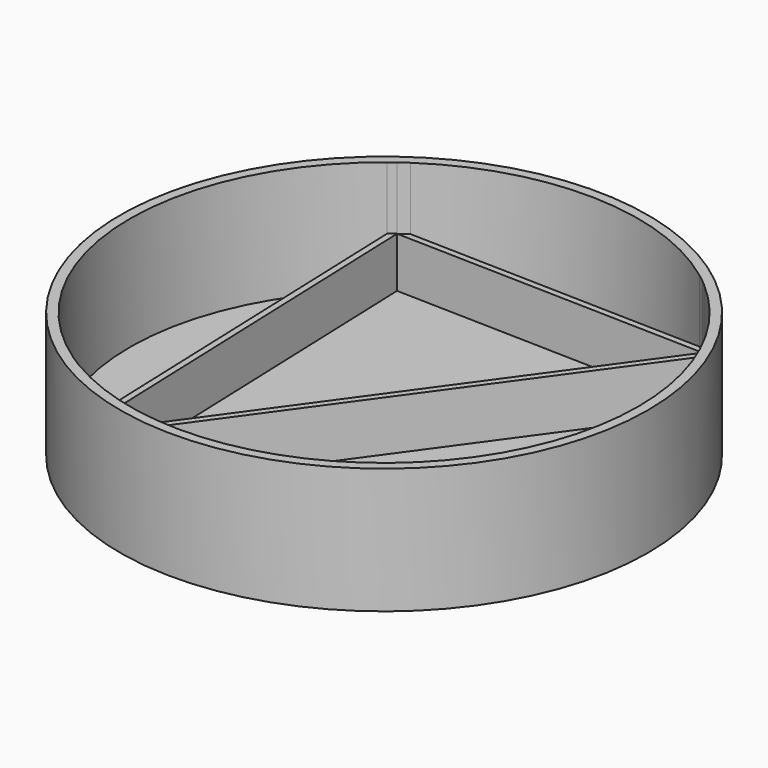
from build123d import *

# Parameters (mm, degrees)
F0_R     = 21.007285
F1_DEPTH = 10
F2_DEPTH = 5
F3_DEPTH = 1


with BuildPart() as f1:
    # F0 (on Top) → F1 (new body)
    with BuildSketch(Plane.XY):
        with Locations((-22.267804, 31.613778)):
            Circle(F0_R)
        with BuildLine():
            ThreePointArc((-9.054285, 46.93661), (-3.872977, 40.040914), (-2.034508, 31.613778))
            ThreePointArc((-2.034508, 31.613778), (-12.277525, 14.018876), (-32.635611, 14.238658))
            ThreePointArc((-32.635611, 14.238658), (-32.851833, 14.369517), (-33.066404, 14.503066))
            ThreePointArc((-33.066404, 14.503066), (-33.325959, 14.669652), (-33.582945, 14.840174))
            ThreePointArc((-33.582945, 14.840174), (-42.48798, 30.885292), (-34.760672, 47.529634))
            ThreePointArc((-34.760672, 47.529634), (-34.516623, 47.718208), (-34.269729, 47.90304))
            ThreePointArc((-34.269729, 47.90304), (-33.927332, 48.149849), (-33.579861, 48.389463))
            ThreePointArc((-33.579861, 48.389463), (-21.7455, 51.840331), (-10.105014, 47.78328))
            ThreePointArc((-10.105014, 47.78328), (-9.770373, 47.526052), (-9.441171, 47.2619))
            ThreePointArc((-9.441171, 47.2619), (-9.246712, 47.100463), (-9.054285, 46.93661))
        make_face(mode=Mode.SUBTRACT)
    extrude(amount=F1_DEPTH)

    # F0 (on Top) → F2 (join)
    with BuildSketch(Plane.XY):
        with BuildLine():
            Line((-34.269729, 47.90304), (-9.441171, 47.2619))
            ThreePointArc((-9.441171, 47.2619), (-9.770373, 47.526052), (-10.105014, 47.78328))
            Line((-10.105014, 47.78328), (-33.579861, 48.389463))
            ThreePointArc((-33.579861, 48.389463), (-33.927332, 48.149849), (-34.269729, 47.90304))
        make_face()
        with BuildLine():
            Line((-32.635611, 14.238658), (-9.054285, 46.93661))
            ThreePointArc((-9.054285, 46.93661), (-9.246712, 47.100463), (-9.441171, 47.2619))
            Line((-9.441171, 47.2619), (-33.066404, 14.503066))
            ThreePointArc((-33.066404, 14.503066), (-32.851833, 14.369517), (-32.635611, 14.238658))
        make_face()
        with BuildLine():
            ThreePointArc((-33.582945, 14.840174), (-33.325959, 14.669652), (-33.066404, 14.503066))
            Line((-33.066404, 14.503066), (-34.269729, 47.90304))
            ThreePointArc((-34.269729, 47.90304), (-34.516623, 47.718208), (-34.760672, 47.529634))
            Line((-34.760672, 47.529634), (-33.582945, 14.840174))
        make_face()
    extrude(amount=F2_DEPTH)

    # F0 (on Top) → F3 (join)
    with BuildSketch(Plane.XY):
        Polygon((-33.066404, 14.503066), (-9.441171, 47.2619), (-34.269729, 47.90304), align=None)
        with BuildLine():
            Line((-33.579861, 48.389463), (-10.105014, 47.78328))
            ThreePointArc((-10.105014, 47.78328), (-21.7455, 51.840331), (-33.579861, 48.389463))
        make_face()
        with BuildLine():
            ThreePointArc((-32.635611, 14.238658), (-12.277525, 14.018876), (-2.034508, 31.613778))
            ThreePointArc((-2.034508, 31.613778), (-3.872977, 40.040914), (-9.054285, 46.93661))
            Line((-9.054285, 46.93661), (-32.635611, 14.238658))
        make_face()
        with BuildLine():
            ThreePointArc((-34.760672, 47.529634), (-42.48798, 30.885292), (-33.582945, 14.840174))
            Line((-33.582945, 14.840174), (-34.760672, 47.529634))
        make_face()
    extrude(amount=F3_DEPTH)


solid = f1.part
